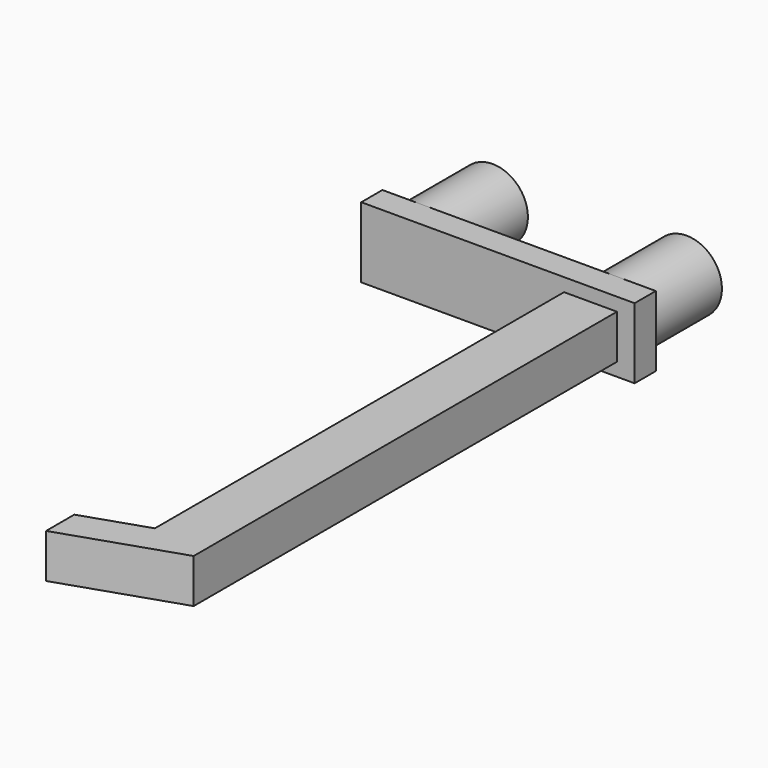
from build123d import *

# Parameters (mm, degrees)
CYLINDER_R             = 4
CYLINDER_DEPTH         = 10
CYLINDER_ROLL_ANGLE    = 90
CYLINDER001_R          = 4
CYLINDER001_DEPTH      = 10
CYLINDER001_ROLL_ANGLE = 90
BOX_W                  = 31
BOX_H                  = 3
BOX_DEPTH              = 8
PAD_DEPTH              = 2.5


with BuildPart() as pin1:
    # Cylinder → Cylinder (new body)
    with BuildSketch(Plane.XY):
        Circle(CYLINDER_R)
    extrude(amount=CYLINDER_DEPTH)


with BuildPart() as pin1_1:
    # Cylinder roll: moved
    add(pin1.part.rotate(Axis((0, 0, 0), (1, 0, 0)), CYLINDER_ROLL_ANGLE))


with BuildPart() as pin1_2:
    # Cylinder placement: moved
    add(pin1_1.part.moved(Location((0, -5, 0))))


with BuildPart() as pin2:
    # Cylinder001 → Cylinder001 (new body)
    with BuildSketch(Plane.XY):
        Circle(CYLINDER001_R)
    extrude(amount=CYLINDER001_DEPTH)


with BuildPart() as pin2_1:
    # Cylinder001 roll: moved
    add(pin2.part.rotate(Axis((0, 0, 0), (1, 0, 0)), CYLINDER001_ROLL_ANGLE))


with BuildPart() as pin2_2:
    # Cylinder001 placement: moved
    add(pin2_1.part.moved(Location((22, -5, 0))))


with BuildPart() as base:
    # Box → Box (new body)
    with BuildSketch(Plane(origin=(-4.5, -18, -4), x_dir=(1, 0, 0), z_dir=(0, 0, 1))):
        with Locations((15.5, 1.5)):
            Rectangle(BOX_W, BOX_H)
    extrude(amount=BOX_DEPTH)


with BuildPart() as pad:
    # Sketch → Pad (new body, symmetric)
    with BuildSketch(Plane.XY):
        Polygon((18.496441, -18), (24.496441, -18), (24.496441, -78), (11.283301, -82.40438), (11.283301, -78.40438), (18.496441, -76), align=None)
    extrude(amount=PAD_DEPTH, both=True)


solid = Compound([pin1_2.part, pin2_2.part, base.part, pad.part])
